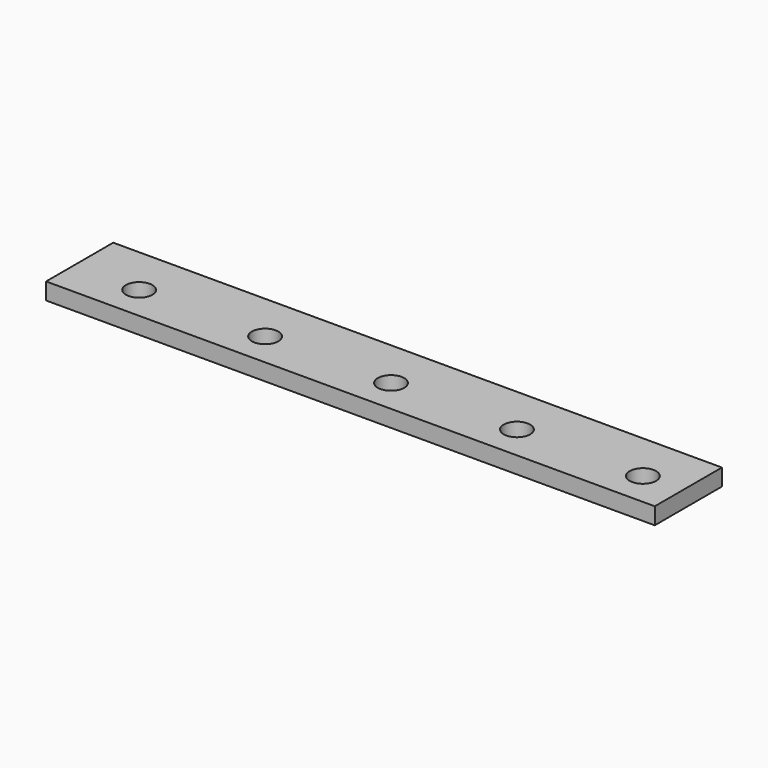
from build123d import *

# Parameters (mm, degrees)
F0_W     = 580
F0_H     = 80
F0_R     = 12.6
F1_DEPTH = 16


with BuildPart() as f1:
    # F0 (on Top) → F1 (new body)
    with BuildSketch(Plane.XY):
        Rectangle(F0_W, F0_H)
        with Locations((-227.4, -7.4)):
            Circle(F0_R, mode=Mode.SUBTRACT)
        with Locations((-107.4, -7.4)):
            Circle(F0_R, mode=Mode.SUBTRACT)
        with Locations((12.6, -7.4)):
            Circle(F0_R, mode=Mode.SUBTRACT)
        with Locations((132.6, -7.4)):
            Circle(F0_R, mode=Mode.SUBTRACT)
        with Locations((252.606442, -7.40342)):
            Circle(F0_R, mode=Mode.SUBTRACT)
    extrude(amount=F1_DEPTH)


solid = f1.part
